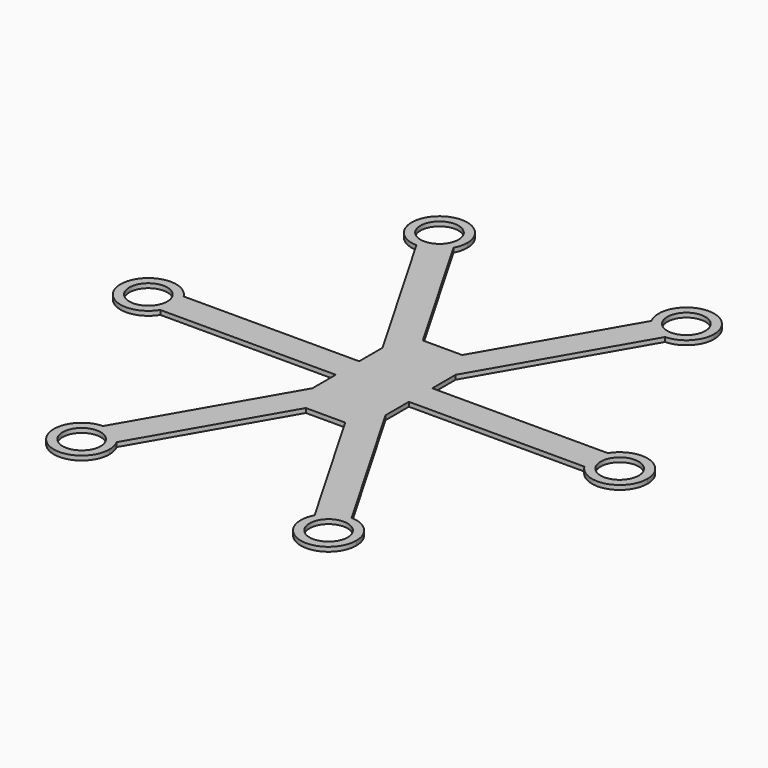
from build123d import *

# Parameters (mm, degrees)
F0_R     = 13
F1_DEPTH = 3


with BuildPart() as f1:
    # F0 (on Top) → F1 (new body)
    with BuildSketch(Plane.XY):
        Polygon((25, 30), (25, 50), (13.452995, 50), (-13.452995, 50), (-25, 50), (-25, 30), (-25, 10), (-25, -10), (-25, -30), (-25, -50), (-13.452995, -50), (13.452995, -50), (25, -50), (25, -30), (25, -10), (25, 10), align=None)
        with BuildLine():
            Line((13.452995, 50), (25, 50))
            Line((25, 50), (25, 30))
            Line((25, 30), (85, 133.923048))
            ThreePointArc((85, 133.923048), (74.917493, 136.459634), (67.679492, 143.923048))
            Line((67.679492, 143.923048), (13.452995, 50))
        make_face()
        with BuildLine():
            Line((-25, 50), (-13.452995, 50))
            Line((-13.452995, 50), (-67.679492, 143.923048))
            ThreePointArc((-67.679492, 143.923048), (-74.917493, 136.459634), (-85, 133.923048))
            Line((-85, 133.923048), (-25, 30))
            Line((-25, 30), (-25, 50))
        make_face()
        with BuildLine():
            ThreePointArc((103.417493, 152.914117), (79.781872, 171.339942), (67.679492, 143.923048))
            ThreePointArc((67.679492, 143.923048), (74.917493, 136.459634), (85, 133.923048))
            ThreePointArc((85, 133.923048), (98.056915, 139.686639), (103.417493, 152.914117))
        make_face()
        with Locations((84.417493, 152.914117)):
            Circle(F0_R, mode=Mode.SUBTRACT)
        with BuildLine():
            Line((145, 10), (25, 10))
            Line((25, 10), (25, -10))
            Line((25, -10), (145, -10))
            ThreePointArc((145, -10), (142.155494, 0), (145, 10))
        make_face()
        with BuildLine():
            ThreePointArc((-85, 133.923048), (-74.917493, 136.459634), (-67.679492, 143.923048))
            ThreePointArc((-67.679492, 143.923048), (-65.991669, 148.278495), (-65.417493, 152.914117))
            ThreePointArc((-65.417493, 152.914117), (-97.644972, 166.553538), (-85, 133.923048))
        make_face()
        with Locations((-84.417493, 152.914117)):
            Circle(F0_R, mode=Mode.SUBTRACT)
        with BuildLine():
            ThreePointArc((180.155494, 0), (166.353841, 18.275043), (145, 10))
            ThreePointArc((145, 10), (142.155494, 0), (145, -10))
            ThreePointArc((145, -10), (166.353841, -18.275043), (180.155494, 0))
        make_face()
        with Locations((161.155494, 0)):
            Circle(F0_R, mode=Mode.SUBTRACT)
        with BuildLine():
            Line((85, -133.923048), (25, -30))
            Line((25, -30), (25, -50))
            Line((25, -50), (13.452995, -50))
            Line((13.452995, -50), (67.679492, -143.923048))
            ThreePointArc((67.679492, -143.923048), (74.917493, -136.459634), (85, -133.923048))
        make_face()
        with BuildLine():
            Line((-25, -10), (-25, 10))
            Line((-25, 10), (-145, 10))
            ThreePointArc((-145, 10), (-142.880451, 5.198346), (-142.155494, 0))
            ThreePointArc((-142.155494, 0), (-142.880451, -5.198346), (-145, -10))
            Line((-145, -10), (-25, -10))
        make_face()
        with BuildLine():
            ThreePointArc((103.417493, -152.914117), (98.056915, -139.686639), (85, -133.923048))
            ThreePointArc((85, -133.923048), (74.917493, -136.459634), (67.679492, -143.923048))
            ThreePointArc((67.679492, -143.923048), (79.781872, -171.339942), (103.417493, -152.914117))
        make_face()
        with Locations((84.417493, -152.914117)):
            Circle(F0_R, mode=Mode.SUBTRACT)
        with BuildLine():
            ThreePointArc((-142.155494, 0), (-142.880451, 5.198346), (-145, 10))
            ThreePointArc((-145, 10), (-180.155494, 0), (-145, -10))
            ThreePointArc((-145, -10), (-142.880451, -5.198346), (-142.155494, 0))
        make_face()
        with Locations((-161.155494, 0)):
            Circle(F0_R, mode=Mode.SUBTRACT)
        with BuildLine():
            Line((-25, -50), (-25, -30))
            Line((-25, -30), (-85, -133.923048))
            ThreePointArc((-85, -133.923048), (-74.917493, -136.459634), (-67.679492, -143.923048))
            Line((-67.679492, -143.923048), (-13.452995, -50))
            Line((-13.452995, -50), (-25, -50))
        make_face()
        with BuildLine():
            ThreePointArc((-67.679492, -143.923048), (-74.917493, -136.459634), (-85, -133.923048))
            ThreePointArc((-85, -133.923048), (-97.644972, -166.553538), (-65.417493, -152.914117))
            ThreePointArc((-65.417493, -152.914117), (-65.991669, -148.278495), (-67.679492, -143.923048))
        make_face()
        with Locations((-84.417493, -152.914117)):
            Circle(F0_R, mode=Mode.SUBTRACT)
    extrude(amount=F1_DEPTH)


solid = f1.part
